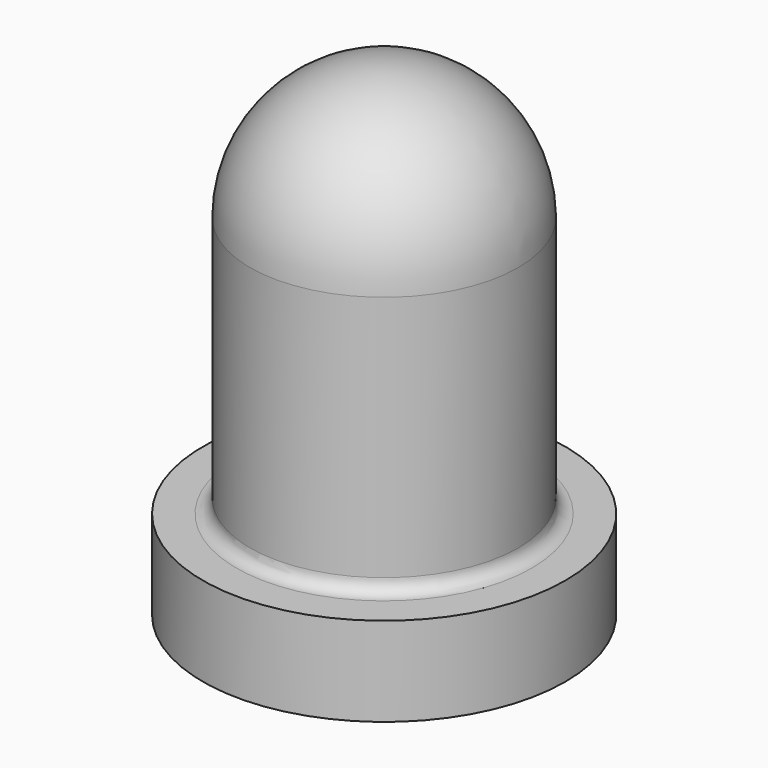
from build123d import *

# Parameters (mm, degrees)
F0_W   = 1
F0_H   = 0.6634108722
F0_W_2 = 0.35
F2_R   = 0.1


with BuildPart() as f1:
    # F0 (on Front) → F1 (revolve)
    with BuildSketch(Plane.XZ):
        with Locations((0.5, -0.7700230926)):
            Rectangle(F0_W, F0_H)
        with BuildLine():
            ThreePointArc((0, 0.5), (0.7071067812, 0.7928932188), (1, 1.5))
            Line((1, 1.5), (0, 1.5))
            Line((0, 1.5), (0, 0.5))
        make_face()
        with BuildLine():
            Line((1, -0.4383176565), (1, 1.5))
            ThreePointArc((1, 1.5), (0.7071067812, 0.7928932188), (0, 0.5))
            Line((0, 0.5), (0, -0.4383176565))
            Line((0, -0.4383176565), (1, -0.4383176565))
        make_face()
        with BuildLine():
            Line((0, 1.5), (1, 1.5))
            ThreePointArc((1, 1.5), (0.7071067812, 2.2071067812), (0, 2.5))
            Line((0, 2.5), (0, 1.5))
        make_face()
        with Locations((1.175, -0.7700230926)):
            Rectangle(F0_W_2, F0_H)
    revolve(axis=Axis((0, 0, 0.8823785465), (0, 0, 1)))

    # F2
    f2_edges = [f1.edges().sort_by_distance(p)[0] for p in [
        (-1, 0, -0.438318),
    ]]
    fillet(f2_edges, radius=F2_R)


solid = f1.part
